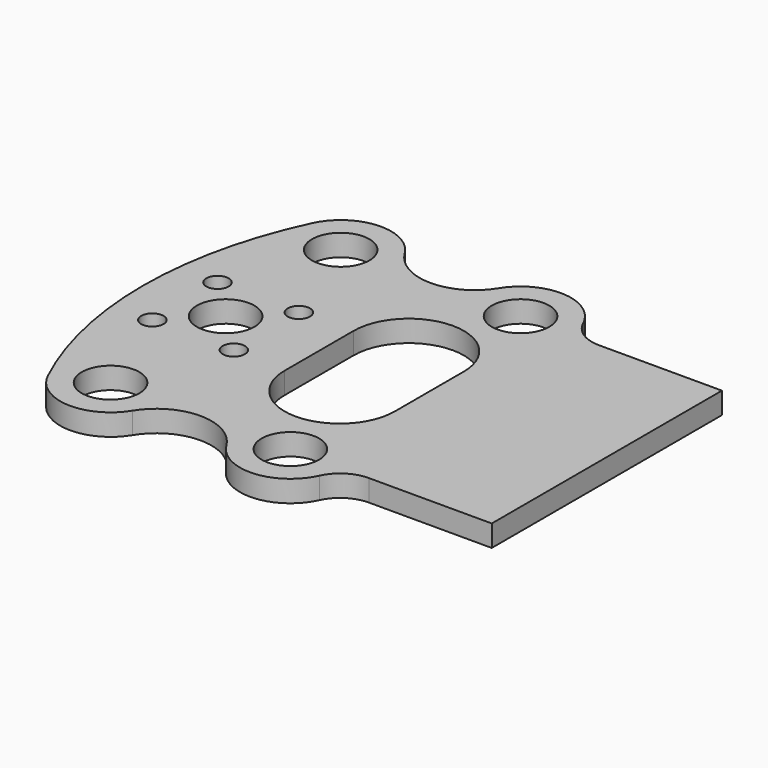
from build123d import *

# Parameters (mm, degrees)
F0_R     = 4
F0_R_2   = 1.55
F1_DEPTH = 3


with BuildPart() as f1:
    # F0 (on Top) → F1 (new body)
    with BuildSketch(Plane.XY):
        with BuildLine():
            ThreePointArc((19.031669, 23.657734), (12.5, 20), (5.968331, 23.657734))
            ThreePointArc((5.968331, 23.657734), (-0.374988, 26.989949), (-6.325402, 22.998215))
            ThreePointArc((-6.325402, 22.998215), (-11.5, 0), (-6.325402, -22.998215))
            ThreePointArc((-6.325402, -22.998215), (-0.374988, -26.989949), (5.968331, -23.657734))
            ThreePointArc((5.968331, -23.657734), (12.5, -20), (19.031669, -23.657734))
            ThreePointArc((19.031669, -23.657734), (25.419903, -26.987394), (31.363415, -22.916667))
            ThreePointArc((31.363415, -22.916667), (33.208403, -20.791873), (35.908712, -20))
            Line((35.908712, -20), (53, -20))
            Line((53, -20), (53, 20))
            Line((53, 20), (35.908712, 20))
            ThreePointArc((35.908712, 20), (33.208403, 20.791873), (31.363415, 22.916667))
            ThreePointArc((31.363415, 22.916667), (25.419903, 26.987394), (19.031669, 23.657734))
        make_face()
        with Locations((0, -20)):
            Circle(F0_R, mode=Mode.SUBTRACT)
        with Locations((-5.656854, -5.656854)):
            Circle(F0_R_2, mode=Mode.SUBTRACT)
        with Locations((5.656854, -5.656854)):
            Circle(F0_R_2, mode=Mode.SUBTRACT)
        with Locations((25, -20)):
            Circle(F0_R, mode=Mode.SUBTRACT)
        with Locations((-5.656854, 5.656854)):
            Circle(F0_R_2, mode=Mode.SUBTRACT)
        Circle(F0_R, mode=Mode.SUBTRACT)
        with Locations((5.656854, 5.656854)):
            Circle(F0_R_2, mode=Mode.SUBTRACT)
        with BuildLine():
            ThreePointArc((13, 5.996174), (20.660714, 13.656888), (28.321429, 5.996174))
            Line((28.321429, 5.996174), (28.321429, -5.996174))
            ThreePointArc((28.321429, -5.996174), (20.660714, -13.656888), (13, -5.996174))
            Line((13, -5.996174), (13, 5.996174))
        make_face(mode=Mode.SUBTRACT)
        with Locations((0, 20)):
            Circle(F0_R, mode=Mode.SUBTRACT)
        with Locations((25, 20)):
            Circle(F0_R, mode=Mode.SUBTRACT)
    extrude(amount=F1_DEPTH)


solid = f1.part
